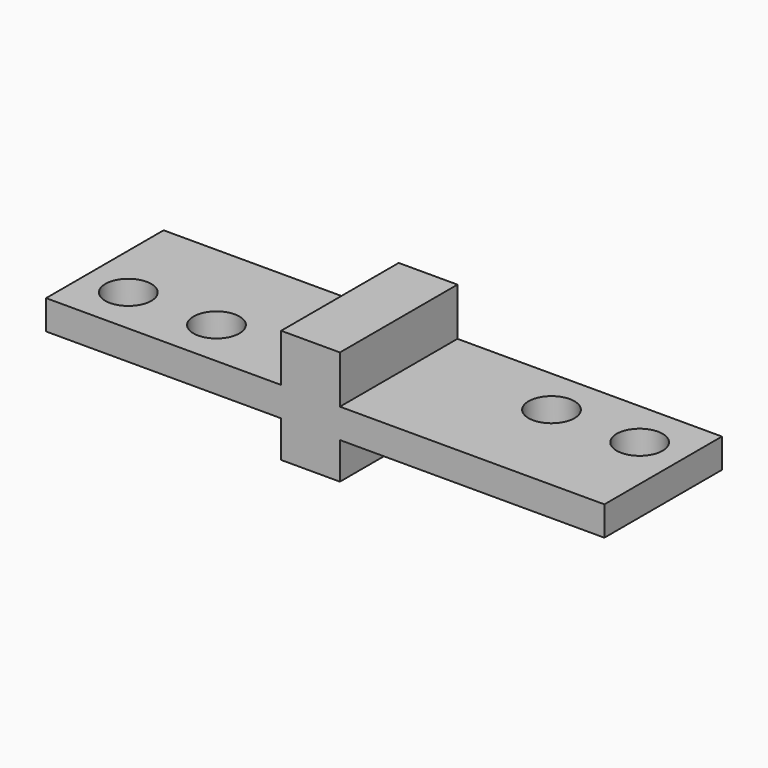
from build123d import *

# Parameters (mm, degrees)
F1_DEPTH = 31.75
F3_D     = 9.9314


with BuildPart() as f1:
    # F0 (on Front) → F1 (new body)
    with BuildSketch(Plane.XZ):
        Polygon((0, 6.35), (0, 0), (50.8, 0), (50.8, -7.9248), (63.5, -7.9248), (63.5, 0), (120.65, 0), (120.65, 6.35), (63.5, 6.35), (63.5, 16.6624), (50.8, 16.6624), (50.8, 6.35), align=None)
    extrude(amount=F1_DEPTH)

    # F3 (through all)
    with Locations(Plane(origin=(0, 0, 0), x_dir=(1, 0, 0), z_dir=(0, 0, -1))):
        with Locations((111.125, 10.3124), (92.075, 10.3124), (28.575, 21.4376), (9.525, 21.4376)):
            Hole(F3_D / 2)


solid = f1.part
